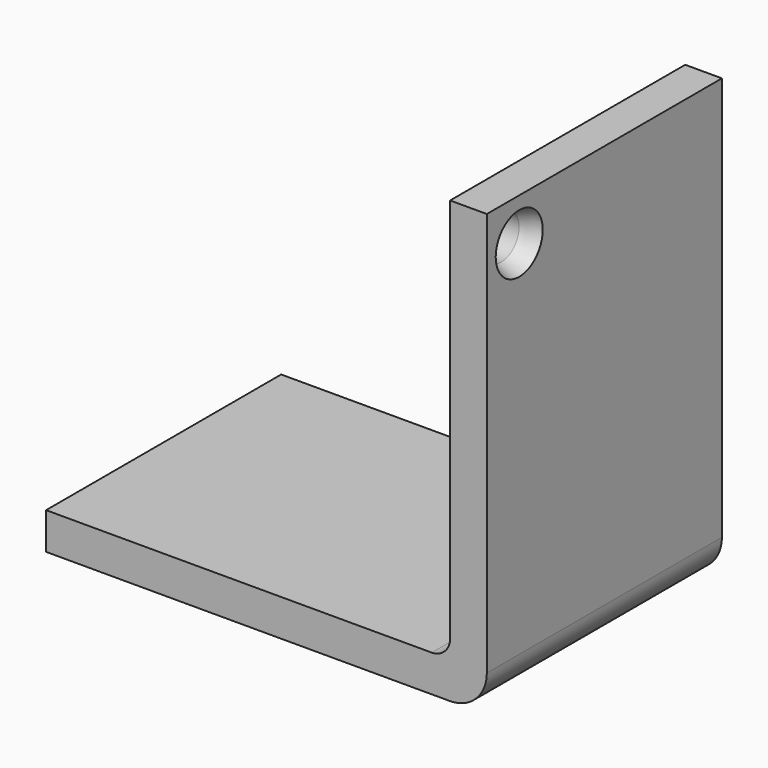
from build123d import *

# Parameters (mm, degrees)
F1_DEPTH       = 12.7
F3_D           = 3.81
F3_CSINK_D     = 5.08
F3_CSINK_ANGLE = 45


with BuildPart() as f1:
    # F0 (on Front) → F1 (new body, symmetric)
    with BuildSketch(Plane.XZ):
        with BuildLine():
            Line((-38.1, 4.7625), (-3.175, 4.7625))
            ThreePointArc((-3.175, 4.7625), (-0.929936, 5.692436), (0, 7.9375))
            Line((0, 7.9375), (0, 42.8625))
            Line((0, 42.8625), (-3.175, 42.8625))
            Line((-3.175, 42.8625), (-3.175, 9.525))
            ThreePointArc((-3.175, 9.525), (-3.639968, 8.402468), (-4.7625, 7.9375))
            Line((-4.7625, 7.9375), (-38.1, 7.9375))
            Line((-38.1, 7.9375), (-38.1, 4.7625))
        make_face()
    extrude(amount=F1_DEPTH, both=True)

    # F3 (through all)
    with Locations(Plane.YZ):
        with Locations((-9.201728, 39.201986)):
            CounterSinkHole(F3_D / 2, F3_CSINK_D / 2, counter_sink_angle=F3_CSINK_ANGLE)


solid = f1.part
